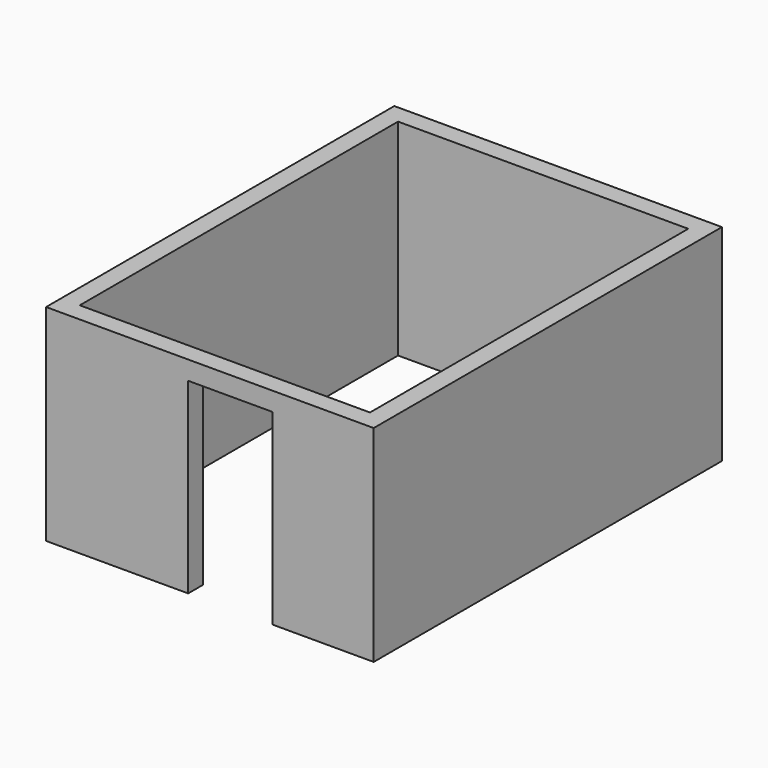
from build123d import *

# Parameters (mm, degrees)
F0_W     = 3500
F0_H     = 4650
F0_W_2   = 3100
F0_H_2   = 4250
F1_DEPTH = 2200
F2_W     = 900
F2_H     = 2000
F3_DEPTH = 300


with BuildPart() as f1:
    # F0 (on Top) → F1 (new body)
    with BuildSketch(Plane.XY):
        with Locations((-1250, 2430.133152)):
            Rectangle(F0_W, F0_H)
        with Locations((-1250, 2430.133152)):
            Rectangle(F0_W_2, F0_H_2, mode=Mode.SUBTRACT)
    extrude(amount=F1_DEPTH)

    # F2 (on face) → F3 (cut)
    with BuildSketch(Plane.XZ.offset(-105.133152)):
        with Locations((-1032.105631, 1000)):
            Rectangle(F2_W, F2_H)
    extrude(amount=-F3_DEPTH, mode=Mode.SUBTRACT)


solid = f1.part
